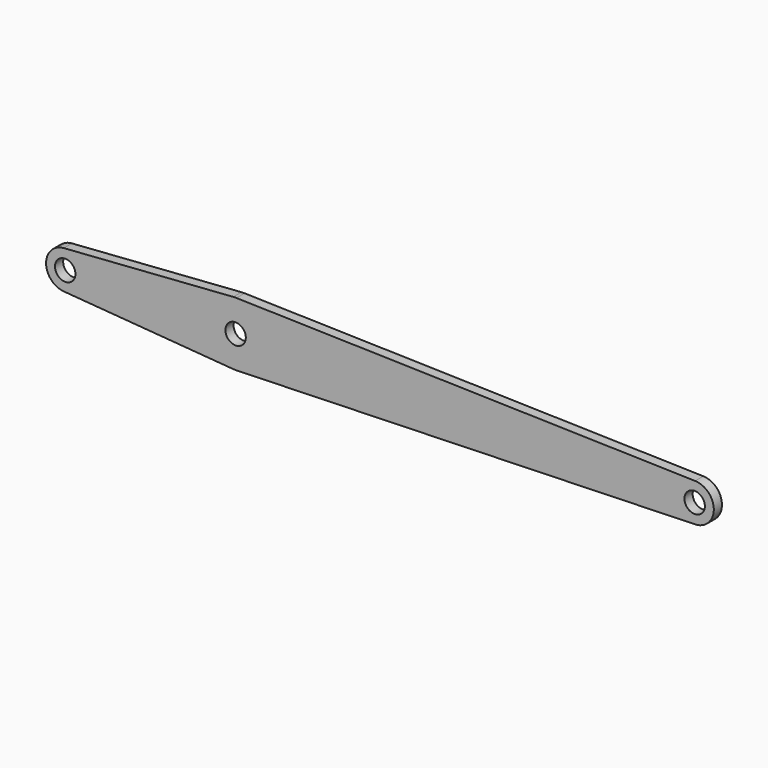
from build123d import *

# Parameters (mm, degrees)
F0_R     = 4
F1_DEPTH = 4


with BuildPart() as f1:
    # F0 (on Front) → F1 (new body)
    with BuildSketch(Plane.XZ):
        with BuildLine():
            Line((-0.894263, 12.467971), (-67.350288, 7.701424))
            ThreePointArc((-67.350288, 7.701424), (-74.313689, 0.245409), (-67.399684, -7.256434))
            Line((-67.399684, -7.256434), (-0.97659, -12.461793))
            ThreePointArc((-0.97659, -12.461793), (-0.303359, -12.496318), (0.370754, -12.4945))
            Line((0.370754, -12.4945), (180.222452, -7.1577))
            ThreePointArc((180.222452, -7.1577), (187.499987, 0.353125), (180.194213, 7.836485))
            Line((180.194213, 7.836485), (0.323688, 12.495808))
            ThreePointArc((0.323688, 12.495808), (-0.285627, 12.496736), (-0.894263, 12.467971))
        make_face()
        with Locations((-66.81373, 0.220642)):
            Circle(F0_R, mode=Mode.SUBTRACT)
        Circle(F0_R, mode=Mode.SUBTRACT)
        with Locations((180, 0.339)):
            Circle(F0_R, mode=Mode.SUBTRACT)
    extrude(amount=F1_DEPTH)


solid = f1.part
